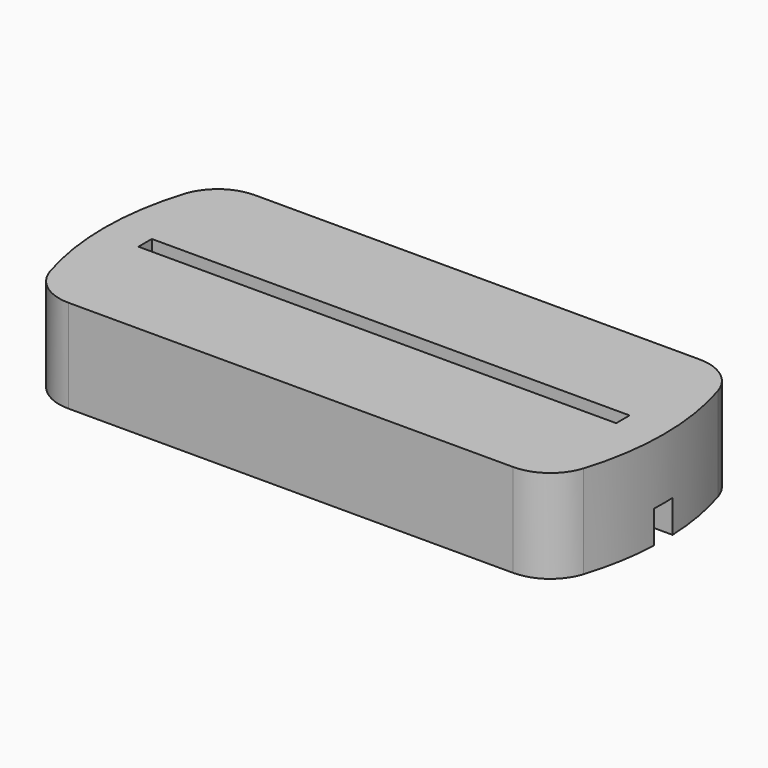
from build123d import *

# Parameters (mm, degrees)
F1_DEPTH = 25.4
F2_W     = 130.175
F2_H     = 4.572
F3_DEPTH = 25.401
F5_DEPTH = 8.89
F6_R     = 12.7


with BuildPart() as f1:
    # F0 (on Top) → F1 (new body)
    with BuildSketch(Plane.XY):
        with BuildLine():
            Line((69.270322, 31.75), (-69.270322, 31.75))
            ThreePointArc((-69.270322, 31.75), (-76.2, 0), (-69.270322, -31.75))
            Line((-69.270322, -31.75), (69.270322, -31.75))
            ThreePointArc((69.270322, -31.75), (76.2, 0), (69.270322, 31.75))
        make_face()
    extrude(amount=F1_DEPTH)

    # F2 (on face) → F3 (cut, through all)
    with BuildSketch(Plane(origin=(0, 0, 0), x_dir=(1, 0, 0), z_dir=(0, 0, -1))):
        Rectangle(F2_W, F2_H)
    extrude(amount=-F3_DEPTH, mode=Mode.SUBTRACT)

    # F4 (on face) → F5 (cut)
    with BuildSketch(Plane(origin=(0, 0, 0), x_dir=(1, 0, 0), z_dir=(0, 0, -1))):
        Polygon((69.85, 7.62), (-69.85, 7.62), (-69.85, -7.62), (69.85, -7.62), (69.85, -3.116865), (69.85, 3.233135), align=None)
        with BuildLine():
            Line((76.131379, 3.233135), (69.85, 3.233135))
            Line((69.85, 3.233135), (69.85, -3.116865))
            Line((69.85, -3.116865), (76.136228, -3.116865))
            ThreePointArc((76.136228, -3.116865), (76.199978, 0.058186), (76.131379, 3.233135))
        make_face()
    extrude(amount=-F5_DEPTH, mode=Mode.SUBTRACT)

    # F6
    f6_edges = [f1.edges().sort_by_distance(p)[0] for p in [
        (69.270322, -31.75, 12.7),
        (69.270322, 31.75, 12.7),
        (-69.270322, -31.75, 12.7),
        (-69.270322, 31.75, 12.7),
    ]]
    fillet(f6_edges, radius=F6_R)


solid = f1.part
